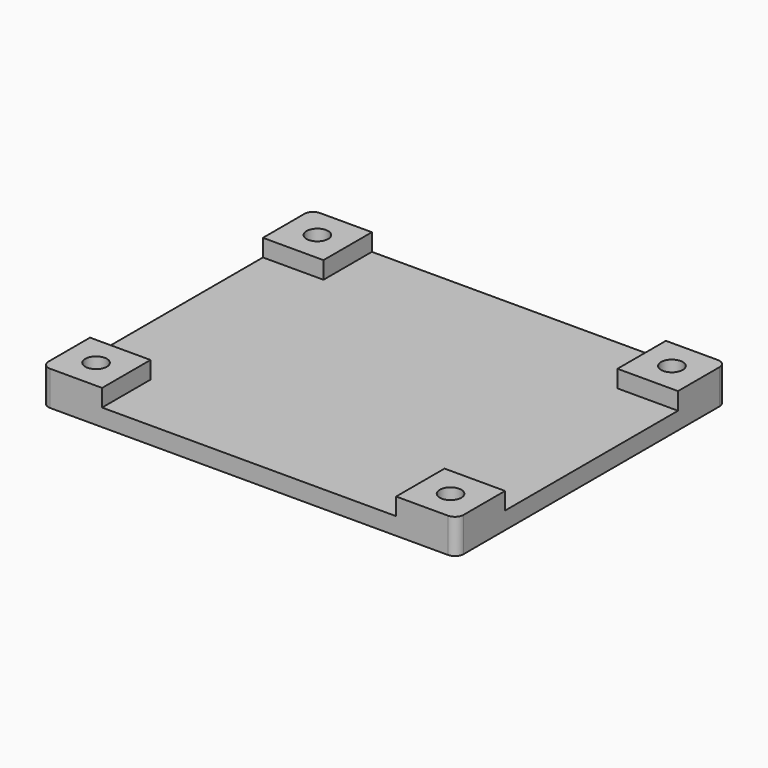
from build123d import *

# Parameters (mm, degrees)
SKETCH_W     = 48
SKETCH_H     = 39
SKETCH_R     = 1.25
PAD_DEPTH    = 2
SKETCH001_W  = 7
SKETCH001_H  = 7
SKETCH001_R  = 1.25
PAD001_DEPTH = 2
FILLET_R     = 1
FILLET001_R  = 1
FILLET002_R  = 1
FILLET003_R  = 1


with BuildPart() as part:
    # Sketch → Pad (new body)
    with BuildSketch(Plane.XY):
        Rectangle(SKETCH_W, SKETCH_H)
        with Locations((-20.5, 16)):
            Circle(SKETCH_R, mode=Mode.SUBTRACT)
        with Locations((20.5, -16)):
            Circle(SKETCH_R, mode=Mode.SUBTRACT)
        with Locations((20.5, 16)):
            Circle(SKETCH_R, mode=Mode.SUBTRACT)
        with Locations((-20.5, -16)):
            Circle(SKETCH_R, mode=Mode.SUBTRACT)
    extrude(amount=PAD_DEPTH)

    # Sketch001 (on Face10 of Pad) → Pad001 (join)
    with BuildSketch(Plane.XY.offset(2)):
        with Locations((-20.5, 16)):
            Rectangle(SKETCH001_W, SKETCH001_H)
        with Locations((-20.5, 16)):
            Circle(SKETCH001_R, mode=Mode.SUBTRACT)
        with Locations((20.5, 16)):
            Rectangle(SKETCH001_W, SKETCH001_H)
        with Locations((20.5, 16)):
            Circle(SKETCH001_R, mode=Mode.SUBTRACT)
        with Locations((-20.5, -16)):
            Rectangle(SKETCH001_W, SKETCH001_H)
        with Locations((-20.5, -16)):
            Circle(SKETCH001_R, mode=Mode.SUBTRACT)
        with Locations((20.5, -16)):
            Rectangle(SKETCH001_W, SKETCH001_H)
        with Locations((20.5, -16)):
            Circle(SKETCH001_R, mode=Mode.SUBTRACT)
    extrude(amount=PAD001_DEPTH)

    # Fillet
    fillet_edges = [part.edges().sort_by_distance(p)[0] for p in [
        (-24, 19.5, 1),
        (-24, 19.5, 3),
    ]]
    fillet(fillet_edges, radius=FILLET_R)

    # Fillet001
    fillet001_edges = [part.edges().sort_by_distance(p)[0] for p in [
        (-24, -19.5, 1),
        (-24, -19.5, 3),
    ]]
    fillet(fillet001_edges, radius=FILLET001_R)

    # Fillet002
    fillet002_edges = [part.edges().sort_by_distance(p)[0] for p in [
        (24, -19.5, 1),
        (24, -19.5, 3),
    ]]
    fillet(fillet002_edges, radius=FILLET002_R)

    # Fillet003
    fillet003_edges = [part.edges().sort_by_distance(p)[0] for p in [
        (24, 19.5, 3),
        (24, 19.5, 1),
    ]]
    fillet(fillet003_edges, radius=FILLET003_R)


solid = part.part
